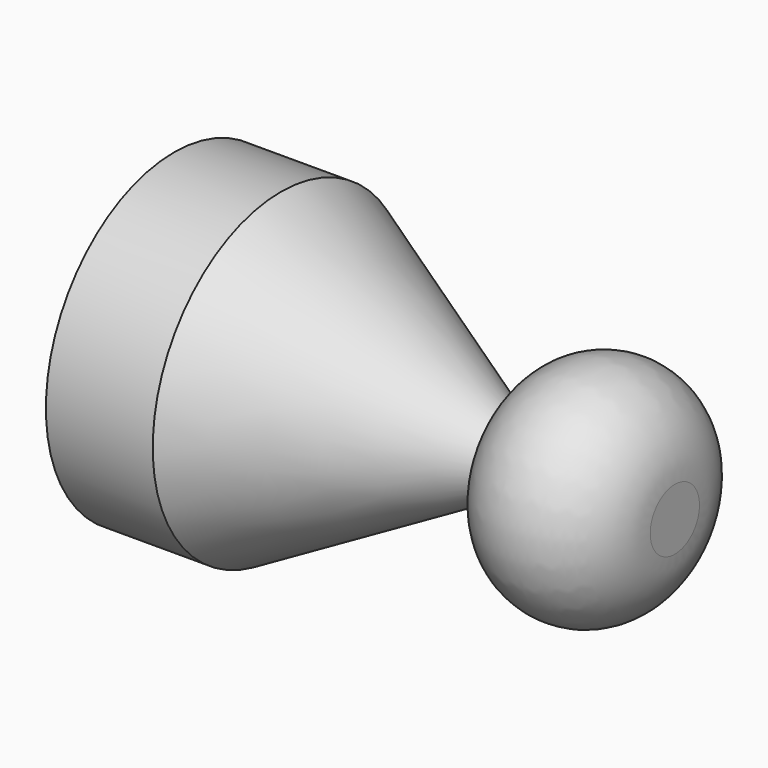
from build123d import *


with BuildPart() as f1:
    # F0 (on Front) → F1 (revolve)
    with BuildSketch(Plane.XZ):
        with BuildLine():
            Line((0, 30), (0, 0))
            Line((0, 0), (93.730985, 0))
            Line((93.730985, 0), (93.730985, 5.759519))
            ThreePointArc((93.730985, 5.759519), (78.730985, 20.759519), (63.730985, 5.759519))
            Line((63.730985, 5.759519), (20, 30))
            Line((20, 30), (0, 30))
        make_face()
    revolve(axis=Axis((46.865493, 0, 0), (-1, 0, 0)))


solid = f1.part
